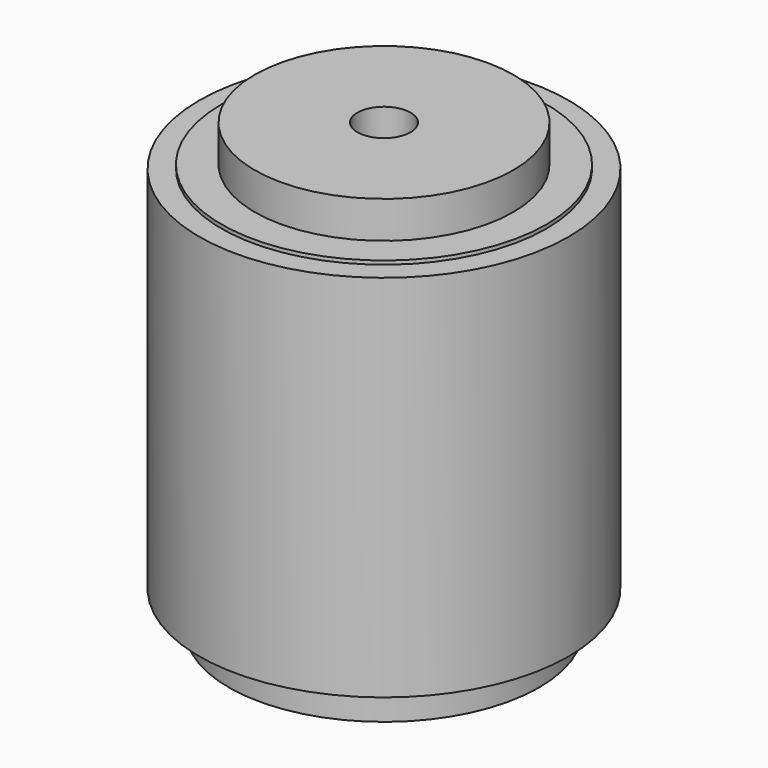
from build123d import *

# Parameters (mm, degrees)
F0_R     = 25
F0_R_2   = 3.6
F1_DEPTH = 50
F2_R     = 21
F2_R_2   = 3.6
F3_DEPTH = 5
F4_R     = 22
F4_R_2   = 3.6
F5_DEPTH = 0.5
F6_R     = 17.5
F6_R_2   = 3.6
F7_DEPTH = 5


with BuildPart() as f1:
    # F0 (on Top) → F1 (new body)
    with BuildSketch(Plane.XY):
        Circle(F0_R)
        Circle(F0_R_2, mode=Mode.SUBTRACT)
    extrude(amount=F1_DEPTH)

    # F2 (on face) → F3 (join)
    with BuildSketch(Plane(origin=(0, 0, 0), x_dir=(1, 0, 0), z_dir=(0, 0, -1))):
        Circle(F2_R)
        Circle(F2_R_2, mode=Mode.SUBTRACT)
    extrude(amount=F3_DEPTH)

    # F4 (on face) → F5 (join)
    with BuildSketch(Plane.XY.offset(50)):
        Circle(F4_R)
        Circle(F4_R_2, mode=Mode.SUBTRACT)
    extrude(amount=F5_DEPTH)

    # F6 (on face) → F7 (join)
    with BuildSketch(Plane.XY.offset(50.5)):
        Circle(F6_R)
        Circle(F6_R_2, mode=Mode.SUBTRACT)
    extrude(amount=F7_DEPTH)


solid = f1.part
